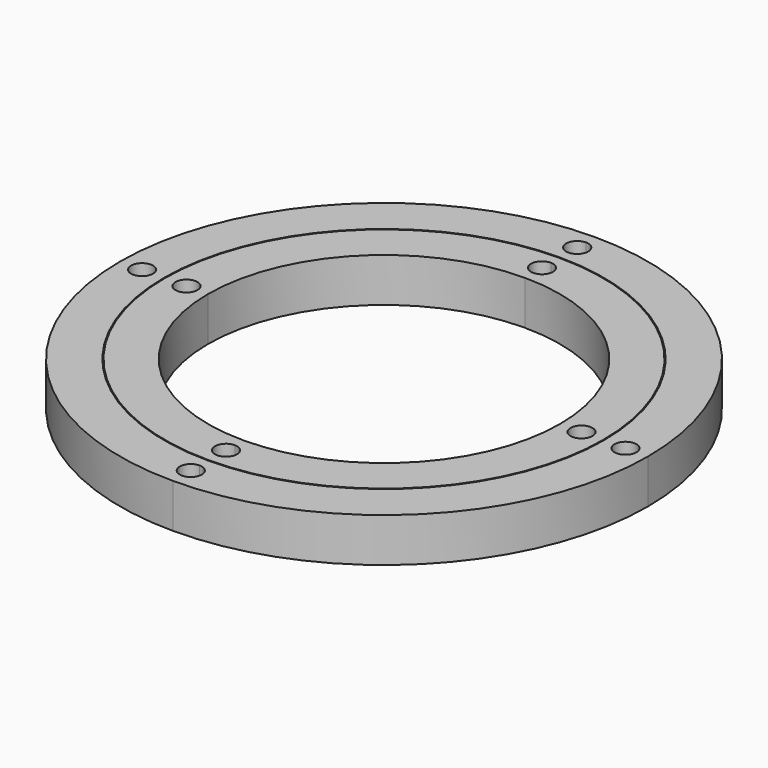
from build123d import *

# Parameters (mm, degrees)
F1_DEPTH = 12.7


with BuildPart() as f1:
    # F0 (on Top) → F1 (new body)
    with BuildSketch(Plane.XY):
        with BuildLine():
            Line((60.198, 0), (63.246, 0))
            ThreePointArc((63.246, 0), (44.7216754829, 44.7216754829), (0, 63.246))
            Line((0, 63.246), (0, 60.198))
            ThreePointArc((0, 60.198), (2.2450640303, 59.2680640303), (3.175, 57.023))
            ThreePointArc((3.175, 57.023), (2.2450640303, 54.7779359697), (0, 53.848))
            Line((0, 53.848), (0, 50.8))
            ThreePointArc((0, 50.8), (35.9210244843, 35.9210244843), (50.8, 0))
            Line((50.8, 0), (53.848, 0))
            ThreePointArc((53.848, 0), (57.023, 3.175), (60.198, 0))
        make_face()
        with BuildLine():
            Line((0, 60.198), (0, 63.246))
            ThreePointArc((0, 63.246), (-44.7216754829, 44.7216754829), (-63.246, 0))
            Line((-63.246, 0), (-60.198, 0))
            ThreePointArc((-60.198, 0), (-57.023, 3.175), (-53.848, 0))
            Line((-53.848, 0), (-50.8, 0))
            ThreePointArc((-50.8, 0), (-35.9210244843, 35.9210244843), (0, 50.8))
            Line((0, 50.8), (0, 53.848))
            ThreePointArc((0, 53.848), (-3.175, 57.023), (0, 60.198))
        make_face()
        with BuildLine():
            ThreePointArc((0, -63.246), (44.7216754829, -44.7216754829), (63.246, 0))
            Line((63.246, 0), (60.198, 0))
            ThreePointArc((60.198, 0), (57.023, -3.175), (53.848, 0))
            Line((53.848, 0), (50.8, 0))
            ThreePointArc((50.8, 0), (35.9210244843, -35.9210244843), (0, -50.8))
            Line((0, -50.8), (0, -53.848))
            ThreePointArc((0, -53.848), (2.2450640303, -54.7779359697), (3.175, -57.023))
            ThreePointArc((3.175, -57.023), (2.2450640303, -59.2680640303), (0, -60.198))
            Line((0, -60.198), (0, -63.246))
        make_face()
        with BuildLine():
            ThreePointArc((-63.246, 0), (-44.7216754829, -44.7216754829), (0, -63.246))
            Line((0, -63.246), (0, -60.198))
            ThreePointArc((0, -60.198), (-3.175, -57.023), (0, -53.848))
            Line((0, -53.848), (0, -50.8))
            ThreePointArc((0, -50.8), (-35.9210244843, -35.9210244843), (-50.8, 0))
            Line((-50.8, 0), (-53.848, 0))
            ThreePointArc((-53.848, 0), (-57.023, -3.175), (-60.198, 0))
            Line((-60.198, 0), (-63.246, 0))
        make_face()
    extrude(amount=F1_DEPTH)


with BuildPart() as f1b:
    # F0 (on Top) → F1, piece 2 (new body)
    with BuildSketch(Plane.XY):
        with BuildLine():
            Line((72.898, 0), (76.2, 0))
            ThreePointArc((76.2, 0), (53.8815367264, 53.8815367264), (0, 76.2))
            Line((0, 76.2), (0, 72.898))
            ThreePointArc((0, 72.898), (2.2450640303, 71.9680640303), (3.175, 69.723))
            ThreePointArc((3.175, 69.723), (2.2450640303, 67.4779359697), (0, 66.548))
            Line((0, 66.548), (0, 63.5))
            ThreePointArc((0, 63.5), (44.9012806053, 44.9012806053), (63.5, 0))
            Line((63.5, 0), (66.548, 0))
            ThreePointArc((66.548, 0), (69.723, 3.175), (72.898, 0))
        make_face()
        with BuildLine():
            Line((0, 72.898), (0, 76.2))
            ThreePointArc((0, 76.2), (-53.8815367264, 53.8815367264), (-76.2, 0))
            Line((-76.2, 0), (-73.025, 0))
            ThreePointArc((-73.025, 0), (-69.85, 3.175), (-66.675, 0))
            Line((-66.675, 0), (-63.5, 0))
            ThreePointArc((-63.5, 0), (-44.9012806053, 44.9012806053), (0, 63.5))
            Line((0, 63.5), (0, 66.548))
            ThreePointArc((0, 66.548), (-3.175, 69.723), (0, 72.898))
        make_face()
        with BuildLine():
            ThreePointArc((-76.2, 0), (-53.8815367264, -53.8815367264), (0, -76.2))
            Line((0, -76.2), (0, -72.898))
            ThreePointArc((0, -72.898), (-3.175, -69.723), (0, -66.548))
            Line((0, -66.548), (0, -63.5))
            ThreePointArc((0, -63.5), (-44.9012806053, -44.9012806053), (-63.5, 0))
            Line((-63.5, 0), (-66.675, 0))
            ThreePointArc((-66.675, 0), (-69.85, -3.175), (-73.025, 0))
            Line((-73.025, 0), (-76.2, 0))
        make_face()
        with BuildLine():
            ThreePointArc((0, -76.2), (53.8815367264, -53.8815367264), (76.2, 0))
            Line((76.2, 0), (72.898, 0))
            ThreePointArc((72.898, 0), (69.723, -3.175), (66.548, 0))
            Line((66.548, 0), (63.5, 0))
            ThreePointArc((63.5, 0), (44.9012806053, -44.9012806053), (0, -63.5))
            Line((0, -63.5), (0, -66.548))
            ThreePointArc((0, -66.548), (2.2450640303, -67.4779359697), (3.175, -69.723))
            ThreePointArc((3.175, -69.723), (2.2450640303, -71.9680640303), (0, -72.898))
            Line((0, -72.898), (0, -76.2))
        make_face()
    extrude(amount=F1_DEPTH)


solid = Compound([f1.part, f1b.part])
